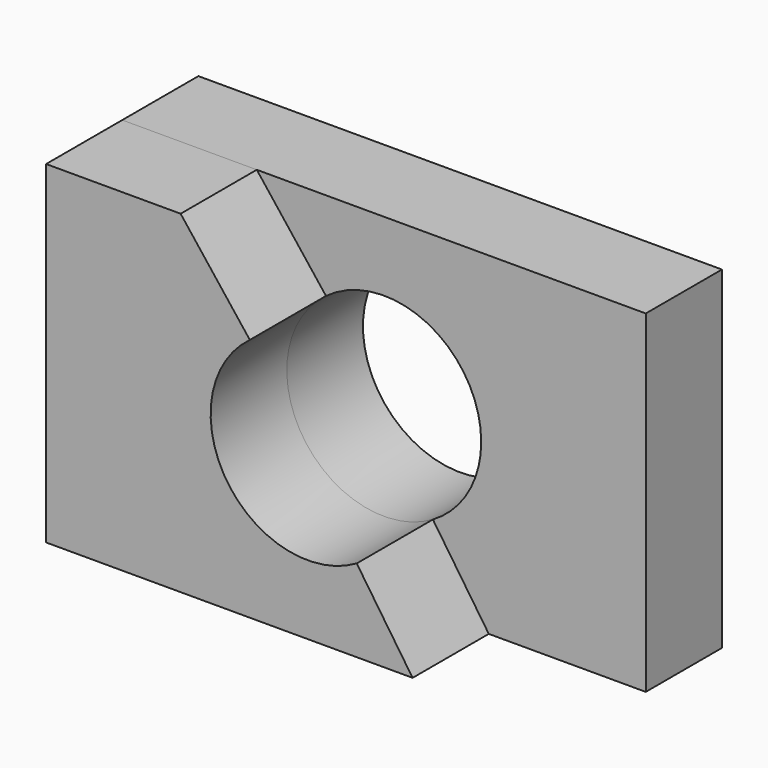
from build123d import *

# Parameters (mm, degrees)
F0_W     = 69.85
F0_H     = 44.45
F1_DEPTH = 12.7
F2_R     = 12.9689795612
F3_DEPTH = 25.4
F5_DEPTH = 12.7


with BuildPart() as f1:
    # F0 (on Front) → F1 (new body)
    with BuildSketch(Plane.XZ):
        with Locations((34.925, 22.225)):
            Rectangle(F0_W, F0_H)
    extrude(amount=F1_DEPTH)

    # F2 (on face) → F3 (cut)
    with BuildSketch(Plane.XZ.offset(12.7)):
        with Locations((34.925, 22.225)):
            Circle(F2_R)
    extrude(amount=-F3_DEPTH, mode=Mode.SUBTRACT)

    # F4 (on face) → F5 (join)
    with BuildSketch(Plane.XZ.offset(12.7)):
        with BuildLine():
            Line((27.1838563224, 32.6302450918), (17.9519541562, 44.45))
            Line((17.9519541562, 44.45), (0, 44.45))
            Line((0, 44.45), (0, 0))
            Line((0, 0), (48.9035993814, 0))
            Line((48.9035993814, 0), (41.4478117951, 11.0157468071))
            ThreePointArc((41.4478117951, 11.0157468071), (24.1005962211, 15.081701484), (27.1838563224, 32.6302450918))
        make_face()
    extrude(amount=F5_DEPTH)


solid = f1.part
